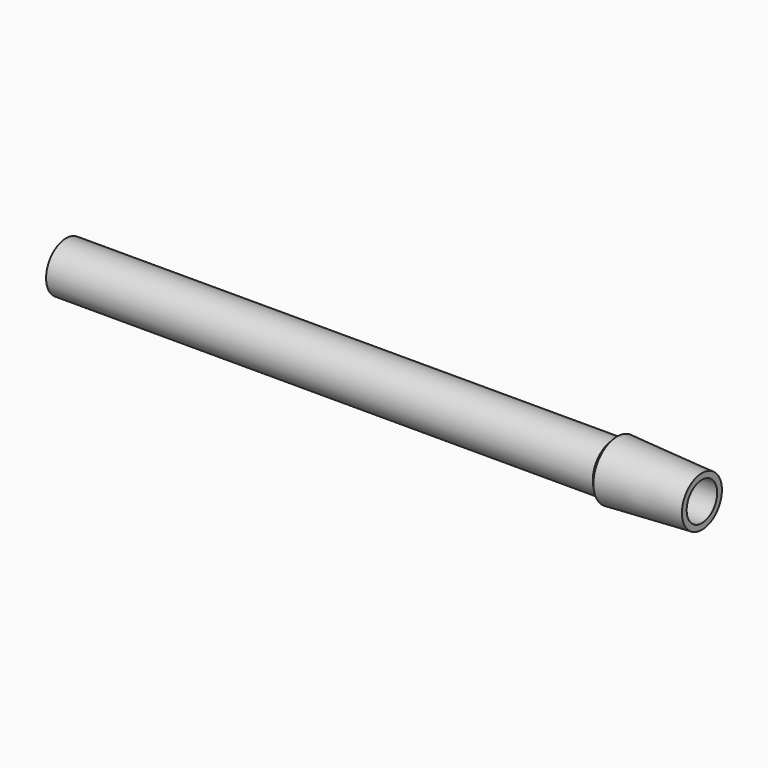
from build123d import *


with BuildPart() as f1:
    # F0 (on Front) → F1 (revolve)
    with BuildSketch(Plane.XZ):
        Polygon((-75, 5.9), (-75, 4.5), (75, 4.5), (75, 5.9), (55, 7), (55, 5.9), (53.975016, 5.9), align=None)
        Polygon((55, 7), (53.975016, 5.9), (55, 5.9), align=None)
    revolve(axis=Axis((0, 0, 0), (1, 0, 0)))


solid = f1.part
